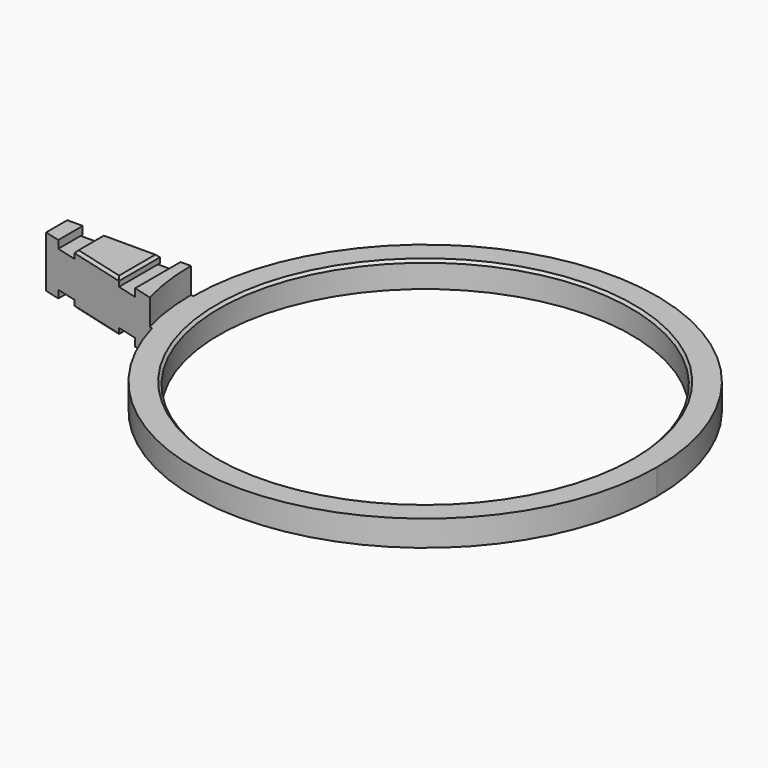
from build123d import *

# Parameters (mm, degrees)
SKETCH_R        = 90
SKETCH_R_2      = 80
PAD_DEPTH       = 10
PAD001_DEPTH    = 10
PAD002_DEPTH    = 20
SKETCH003_W     = 8
SKETCH003_H     = 3
POCKET_DEPTH    = 26
SKETCH005_W     = 46
SKETCH005_H     = 14
POCKET001_DEPTH = 1
CHAMFER_SIZE    = 1
CHAMFER001_SIZE = 1
CHAMFER002_SIZE = 1
CHAMFER003_SIZE = 1


with BuildPart() as part:
    # Sketch → Pad (new body)
    with BuildSketch(Plane.XY):
        Circle(SKETCH_R)
        Circle(SKETCH_R_2, mode=Mode.SUBTRACT)
    extrude(amount=PAD_DEPTH)

    # Sketch001 → Pad001 (join)
    with BuildSketch(Plane.XY):
        with BuildLine():
            Line((-86.659521, -24.292538), (-140, -10))
            Line((-140, -10), (-140, 0))
            Line((-140, 0), (-90, 0))
            ThreePointArc((-90, 0), (-89.160969, -12.260569), (-86.659521, -24.292538))
        make_face()
    extrude(amount=PAD001_DEPTH)

    # Sketch002 → Pad002 (join)
    with BuildSketch(Plane.XY):
        with BuildLine():
            Line((-91, 0), (-140, 0))
            Line((-140, 0), (-140, -10))
            Line((-140, -10), (-87.780251, -23.99224))
            ThreePointArc((-91, 0), (-90.191471, -12.10366), (-87.780251, -23.99224))
        make_face()
    extrude(amount=PAD002_DEPTH)

    # Sketch003 → Pocket (cut, symmetric)
    with BuildSketch(Plane.XZ):
        with Locations((-129, 18.5)):
            Rectangle(SKETCH003_W, SKETCH003_H)
        with Locations((-99, 18.5)):
            Rectangle(SKETCH003_W, SKETCH003_H)
        with Locations((-129, 1.5)):
            Rectangle(SKETCH003_W, SKETCH003_H)
        with Locations((-99, 1.5)):
            Rectangle(SKETCH003_W, SKETCH003_H)
    extrude(amount=POCKET_DEPTH, both=True, mode=Mode.SUBTRACT)

    # Sketch005 → Pocket001 (cut, symmetric)
    with BuildSketch(Plane.XZ):
        with Locations((-117, 10)):
            Rectangle(SKETCH005_W, SKETCH005_H)
    extrude(amount=POCKET001_DEPTH, both=True, mode=Mode.SUBTRACT)

    # Chamfer
    chamfer_edges = [part.edges().sort_by_distance(p)[0] for p in [
        (-80, 0, 10),
    ]]
    chamfer(chamfer_edges, length=CHAMFER_SIZE)

    # Chamfer001
    chamfer001_edges = [part.edges().sort_by_distance(p)[0] for p in [
        (-140, -10, 15),
        (-140, -5, 20),
        (-140, 0, 18.5),
        (-140, -0.5, 17),
        (-140, -1, 13.5),
        (-140, -5.5, 10),
        (-140, -5, 0),
        (-140, 0, 1.5),
        (-140, -0.5, 3),
        (-140, -1, 6.5),
        (-140, -10, 5),
    ]]
    chamfer(chamfer001_edges, length=CHAMFER001_SIZE)

    # Chamfer002
    chamfer002_edges = [part.edges().sort_by_distance(p)[0] for p in [
        (-103, -9.95706, 20),
        (-114, -16.966679, 20),
        (-125, -7.009619, 20),
        (-114, 0, 20),
    ]]
    chamfer(chamfer002_edges, length=CHAMFER002_SIZE)

    # Chamfer003
    chamfer003_edges = [part.edges().sort_by_distance(p)[0] for p in [
        (-114, 0, 0),
        (-125, -7.009619, 0),
        (-114, -16.966679, 0),
        (-103, -9.95706, 0),
    ]]
    chamfer(chamfer003_edges, length=CHAMFER003_SIZE)


solid = part.part
